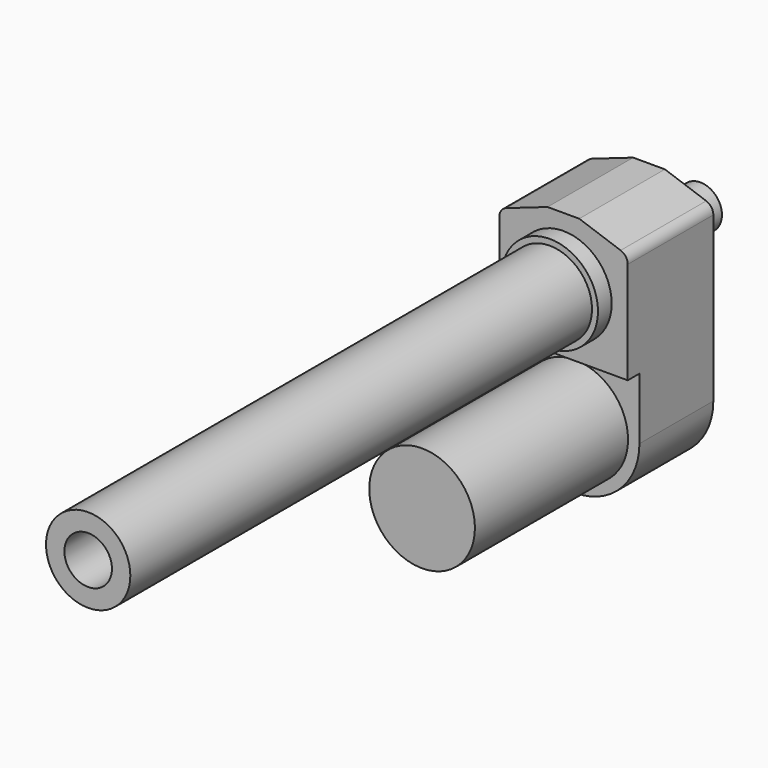
from build123d import *

# Parameters (mm, degrees)
F0_R      = 28.9450820598
F0_R_2    = 31.75
F0_R_3    = 25.3342985941
F0_R_4    = 14.2875
F1_DEPTH  = 55.499
F2_DEPTH  = 114.9858
F3_DEPTH  = 365.76
F4_DEPTH  = 8.7884
F5_DEPTH  = 19.05
F6_R      = 12.9921
F7_DEPTH  = 38.481
F6_R_2    = 19.0658392813
F8_DEPTH  = 5.07789
F9_R      = 6.4897
F10_DEPTH = 25.4
F11_DEPTH = 25.4


with BuildPart() as f1:
    # F0 (on Front) → F1 (new body)
    with BuildSketch(Plane.XZ):
        with BuildLine():
            ThreePointArc((-34.3382090481, 48.0584091192), (-37.4227739234, 45.7396722427), (-38.5953, 42.0632250756))
            Line((-38.5953, 42.0632250756), (-38.5953, -19.3111319095))
            Line((-38.5953, -19.3111319095), (38.5953, -19.3111319095))
            Line((38.5953, -19.3111319095), (38.5953, 42.0582217318))
            ThreePointArc((38.5953, 42.0582217318), (37.4208481647, 45.7373794064), (34.331929545, 48.0555942517))
            Line((34.331929545, 48.0555942517), (9.4760187225, 56.7035609601))
            Line((9.4760187225, 56.7035609601), (-9.5739812775, 56.7035609601))
            Line((-9.5739812775, 56.7035609601), (-34.3382090481, 48.0584091192))
        make_face()
        with Locations((0, 18.1938651949)):
            Circle(F0_R, mode=Mode.SUBTRACT)
        with BuildLine():
            Line((38.5953, -19.3111319095), (-38.5953, -19.3111319095))
            Line((-38.5953, -19.3111319095), (-38.5953, -56.3899390399))
            ThreePointArc((-38.5953, -56.3899390399), (0, -94.9852390399), (38.5953, -56.3899390399))
            Line((38.5953, -56.3899390399), (38.5953, -19.3111319095))
        make_face()
        with Locations((0, -56.3899390399)):
            Circle(F0_R_2, mode=Mode.SUBTRACT)
        with Locations((0, -56.3899390399)):
            Circle(F0_R_2)
        with Locations((0, 18.1938651949)):
            Circle(F0_R)
        with Locations((0, 18.1938651949)):
            Circle(F0_R_3, mode=Mode.SUBTRACT)
        with Locations((0, 18.1938651949)):
            Circle(F0_R_3)
        with Locations((0, 18.1938651949)):
            Circle(F0_R_4, mode=Mode.SUBTRACT)
        with Locations((0, 18.1938651949)):
            Circle(F0_R_4)
    extrude(amount=-F1_DEPTH)

    # F0 (on Front) → F2 (join)
    with BuildSketch(Plane.XZ):
        with Locations((0, -56.3899390399)):
            Circle(F0_R_2)
    extrude(amount=F2_DEPTH)

    # F0 (on Front) → F3 (join)
    with BuildSketch(Plane.XZ):
        with Locations((0, 18.1938651949)):
            Circle(F0_R_3)
        with Locations((0, 18.1938651949)):
            Circle(F0_R_4, mode=Mode.SUBTRACT)
    extrude(amount=F3_DEPTH)

    # F0 (on Front) → F4 (join)
    with BuildSketch(Plane.XZ):
        with BuildLine():
            ThreePointArc((-34.3382090481, 48.0584091192), (-37.4227739234, 45.7396722427), (-38.5953, 42.0632250756))
            Line((-38.5953, 42.0632250756), (-38.5953, -19.3111319095))
            Line((-38.5953, -19.3111319095), (38.5953, -19.3111319095))
            Line((38.5953, -19.3111319095), (38.5953, 42.0582217318))
            ThreePointArc((38.5953, 42.0582217318), (37.4208481647, 45.7373794064), (34.331929545, 48.0555942517))
            Line((34.331929545, 48.0555942517), (9.4760187225, 56.7035609601))
            Line((9.4760187225, 56.7035609601), (-9.5739812775, 56.7035609601))
            Line((-9.5739812775, 56.7035609601), (-34.3382090481, 48.0584091192))
        make_face()
        with Locations((0, 18.1938651949)):
            Circle(F0_R, mode=Mode.SUBTRACT)
    extrude(amount=F4_DEPTH)

    # F0 (on Front) → F5 (join)
    with BuildSketch(Plane.XZ):
        with Locations((0, 18.1938651949)):
            Circle(F0_R)
        with Locations((0, 18.1938651949)):
            Circle(F0_R_3, mode=Mode.SUBTRACT)
    extrude(amount=F5_DEPTH)

    # F6 (on face) → F7 (join)
    with BuildSketch(Plane(origin=(0, 55.499, 0), x_dir=(-1, 0, 0), z_dir=(0, 1, 0))):
        with Locations((0, 18.111359328)):
            Circle(F6_R)
    extrude(amount=F7_DEPTH)

    # F6 (on face) → F8 (join)
    with BuildSketch(Plane(origin=(0, 55.499, 0), x_dir=(-1, 0, 0), z_dir=(0, 1, 0))):
        with Locations((0, 18.111359328)):
            Circle(F6_R_2)
        with Locations((0, 18.111359328)):
            Circle(F6_R, mode=Mode.SUBTRACT)
    extrude(amount=F8_DEPTH)

    # F9 (on Right) → F10 (cut)
    with BuildSketch(Plane.YZ):
        with Locations((79.9846, 17.8194735199)):
            Circle(F9_R)
    extrude(amount=-F10_DEPTH, mode=Mode.SUBTRACT)

    # F9 (on Right) → F11 (cut, symmetric)
    with BuildSketch(Plane.YZ):
        with Locations((79.9846, 17.8194735199)):
            Circle(F9_R)
    extrude(amount=F11_DEPTH, both=True, mode=Mode.SUBTRACT)


solid = f1.part
